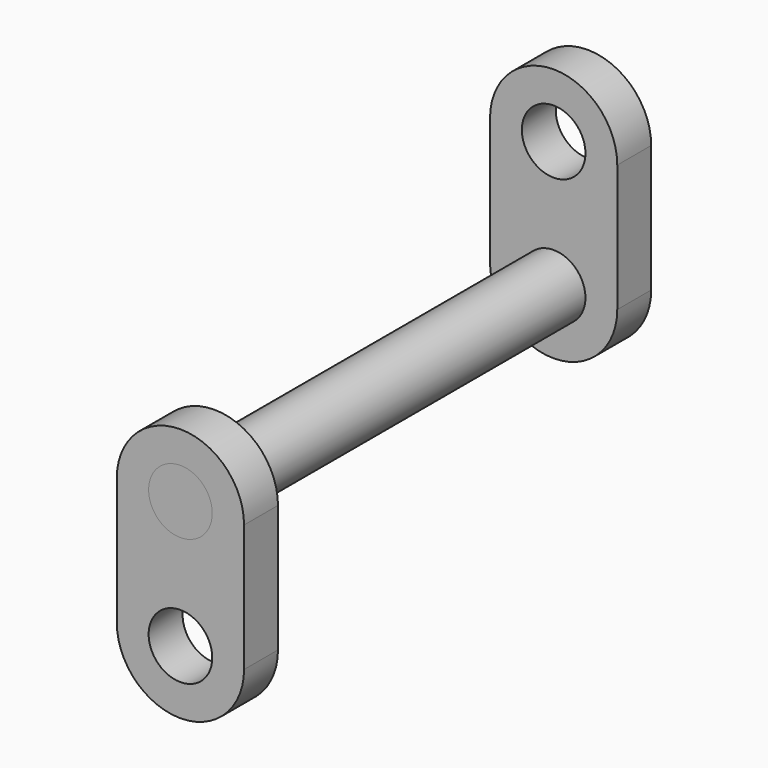
from build123d import *

# Parameters (mm, degrees)
F1_DEPTH  = 10
F2_R      = 7.5
F3_DEPTH  = 25
F6_DEPTH  = 10
F7_R      = 7.5
F8_DEPTH  = 25
F9_R      = 7.5
F10_DEPTH = 120


with BuildPart() as f1:
    # F0 (on Front) → F1 (new body)
    with BuildSketch(Plane.XZ):
        with BuildLine():
            Line((15, -20), (15, 10))
            ThreePointArc((15, 10), (0, 25), (-15, 10))
            Line((-15, 10), (-15, -20))
            ThreePointArc((-15, -20), (0, -35), (15, -20))
        make_face()
    extrude(amount=F1_DEPTH)

    # F2 (on face) → F3 (cut)
    with BuildSketch(Plane.XZ.offset(10)):
        with Locations((0, 10)):
            Circle(F2_R)
        with Locations((0, -20)):
            Circle(F2_R)
    extrude(amount=-F3_DEPTH, mode=Mode.SUBTRACT)


with BuildPart() as f6:
    # F5 (on offset) → F6 (new body)
    with BuildSketch(Plane(origin=(0, 100, 0), x_dir=(-1, 0, 0), z_dir=(0, 1, 0))):
        with BuildLine():
            Line((-15, 40), (-15, 10))
            ThreePointArc((-15, 10), (0, -5), (15, 10))
            Line((15, 10), (15, 40))
            ThreePointArc((15, 40), (0, 55), (-15, 40))
        make_face()
    extrude(amount=F6_DEPTH)

    # F7 (on face) → F8 (cut)
    with BuildSketch(Plane.XZ.offset(-100)):
        with Locations((0, 10)):
            Circle(F7_R)
        with Locations((0, 40)):
            Circle(F7_R)
    extrude(amount=-F8_DEPTH, mode=Mode.SUBTRACT)


with BuildPart() as f10:
    # F9 (on face) → F10 (new body)
    with BuildSketch(Plane.XZ.offset(10)):
        with Locations((0, 10)):
            Circle(F9_R)
    extrude(amount=-F10_DEPTH)


solid = Compound([f1.part, f6.part, f10.part])
